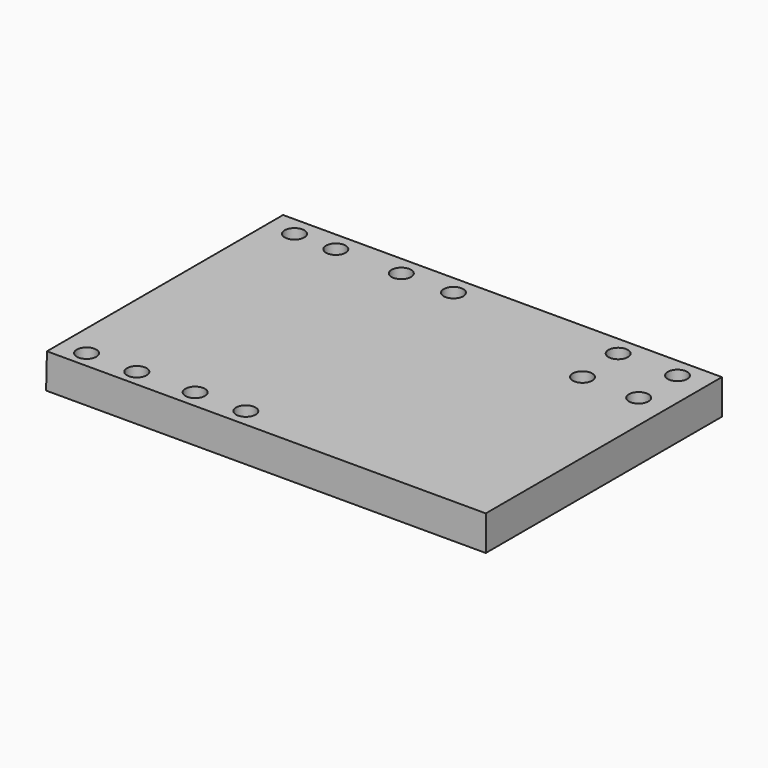
from build123d import *

# Parameters (mm, degrees)
F1_DEPTH = 25.4
F2_DEPTH = 75.9968
F3_R     = 3.356014
F4_DEPTH = 56.388


with BuildPart() as f1:
    # F0 (on Front) → F1 (new body)
    with BuildSketch(Plane.XZ):
        Polygon((64.99356, 48.242185), (-85.765576, 48.242185), (-86.065296, 36.253385), (64.99356, 36.253385), align=None)
    extrude(amount=F1_DEPTH)

    # F1_face (on face) → F2 (join)
    with BuildSketch(Plane(origin=(-10.460963, -25.4, 42.245801), x_dir=(1, 0, 0), z_dir=(0, -1, 0))):
        Polygon((-75.604333, -5.992416), (75.454523, -5.992416), (75.454523, 5.996384), (-75.304613, 5.996384), align=None)
    extrude(amount=F2_DEPTH)

    # F3 (on Top) → F4 (cut)
    with BuildSketch(Plane.XY):
        with Locations((-76.532871, -6.641844)):
            Circle(F3_R)
        with Locations((-62.301904, -6.680765)):
            Circle(F3_R)
        with Locations((-76.775998, -95.625482)):
            Circle(F3_R)
        with Locations((-59.514143, -95.625482)):
            Circle(F3_R)
        with Locations((-39.810318, -6.680765)):
            Circle(F3_R)
        with Locations((-21.883452, -6.680765)):
            Circle(F3_R)
        with Locations((-39.810318, -95.201291)):
            Circle(F3_R)
        with Locations((-22.395648, -95.201291)):
            Circle(F3_R)
        with Locations((34.714222, -6.680765)):
            Circle(F3_R)
        with Locations((55.078939, -6.680765)):
            Circle(F3_R)
        with Locations((55.078939, -23.347175)):
            Circle(F3_R)
        with Locations((35.766117, -23.347175)):
            Circle(F3_R)
    extrude(amount=F4_DEPTH, mode=Mode.SUBTRACT)


solid = f1.part
